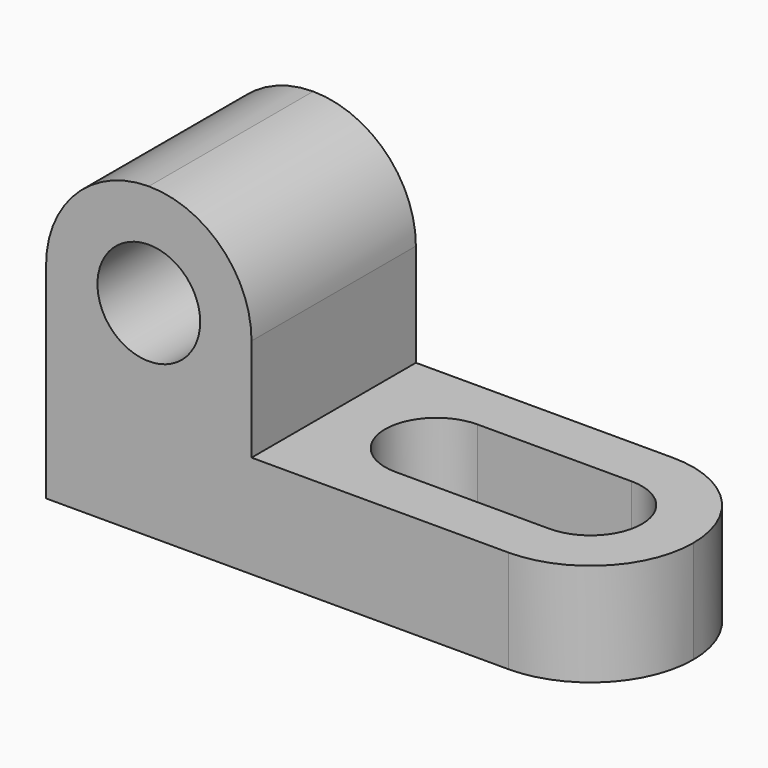
from build123d import *

# Parameters (mm, degrees)
F1_DEPTH = 25.4
F2_R     = 6.35
F3_DEPTH = 25.4
F5_DEPTH = 25.4


with BuildPart() as f1:
    # F0 (on Front) → F1 (new body)
    with BuildSketch(Plane.XZ):
        Polygon((0, 38.1), (0, 0), (69.85, 0), (69.85, 12.7), (25.4, 12.7), (25.4, 38.1), align=None)
    extrude(amount=F1_DEPTH)

    # F2 (on face) → F3 (cut)
    with BuildSketch(Plane.XZ.offset(25.4)):
        with Locations((12.7, 25.4)):
            Circle(F2_R)
        with BuildLine():
            ThreePointArc((0, 25.4), (3.719744, 34.380256), (12.7, 38.1))
            Line((12.7, 38.1), (0, 38.1))
            Line((0, 38.1), (0, 25.4))
        make_face()
        with BuildLine():
            ThreePointArc((12.7, 38.1), (21.680256, 34.380256), (25.4, 25.4))
            Line((25.4, 25.4), (25.4, 38.1))
            Line((25.4, 38.1), (12.7, 38.1))
        make_face()
    extrude(amount=-F3_DEPTH, mode=Mode.SUBTRACT)

    # F4 (on face) → F5 (cut)
    with BuildSketch(Plane.XY.offset(12.7)):
        with BuildLine():
            ThreePointArc((38.1, -19.05), (42.590128, -17.190128), (44.45, -12.7))
            ThreePointArc((44.45, -12.7), (42.590128, -8.209872), (38.1, -6.35))
            ThreePointArc((38.1, -6.35), (31.75, -12.7), (38.1, -19.05))
        make_face()
        with BuildLine():
            ThreePointArc((38.1, -6.35), (42.590128, -8.209872), (44.45, -12.7))
            ThreePointArc((44.45, -12.7), (42.590128, -17.190128), (38.1, -19.05))
            Line((38.1, -19.05), (57.15, -19.05))
            ThreePointArc((57.15, -19.05), (50.8, -12.7), (57.15, -6.35))
            Line((57.15, -6.35), (38.1, -6.35))
        make_face()
        with BuildLine():
            ThreePointArc((63.5, -12.7), (61.640128, -8.209872), (57.15, -6.35))
            ThreePointArc((57.15, -6.35), (50.8, -12.7), (57.15, -19.05))
            ThreePointArc((57.15, -19.05), (61.640128, -17.190128), (63.5, -12.7))
        make_face()
        with BuildLine():
            ThreePointArc((57.15, 0), (66.130256, -3.719744), (69.85, -12.7))
            Line((69.85, -12.7), (69.85, 0))
            Line((69.85, 0), (57.15, 0))
        make_face()
        with BuildLine():
            ThreePointArc((69.85, -12.7), (66.130256, -21.680256), (57.15, -25.4))
            Line((57.15, -25.4), (69.85, -25.4))
            Line((69.85, -25.4), (69.85, -12.7))
        make_face()
    extrude(amount=-F5_DEPTH, mode=Mode.SUBTRACT)


solid = f1.part
